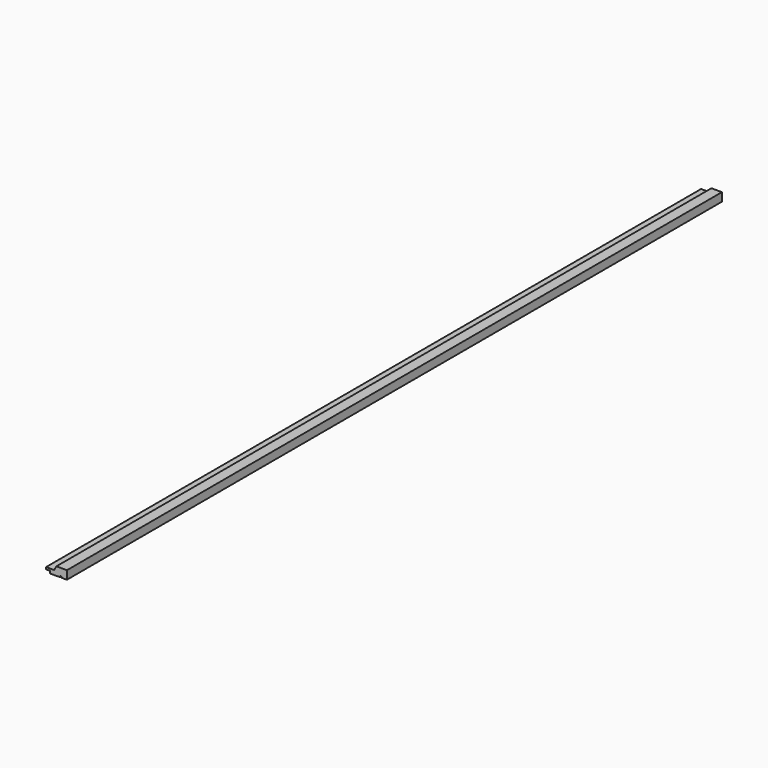
from build123d import *

# Parameters (mm, degrees)
F1_DEPTH = 2042
F2_W     = 3
F2_H     = 3
F2_W_2   = 43
F2_H_2   = 21
F3_DEPTH = 2042.001


with BuildPart() as f1:
    # F0 (on Front) → F1 (new body)
    with BuildSketch(Plane.XZ):
        Polygon((47.5, 10.5), (-21.726497, 10.5), (-27.5, 0.5), (-47.5, 0.5), (-47.5, -4.5), (-37.5, -4.5), (-37.5, -10.5), (47.5, -10.5), (47.5, -4.5), (37.5, -4.5), (37.5, 0.5), (47.5, 0.5), align=None)
    extrude(amount=F1_DEPTH)

    # F2 (on face) → F3 (cut, through all)
    with BuildSketch(Plane.XZ.offset(2042)):
        with Locations((-11, -9)):
            Rectangle(F2_W, F2_H)
        with Locations((26, 0)):
            Rectangle(F2_W_2, F2_H_2)
    extrude(amount=-F3_DEPTH, mode=Mode.SUBTRACT)


solid = f1.part
